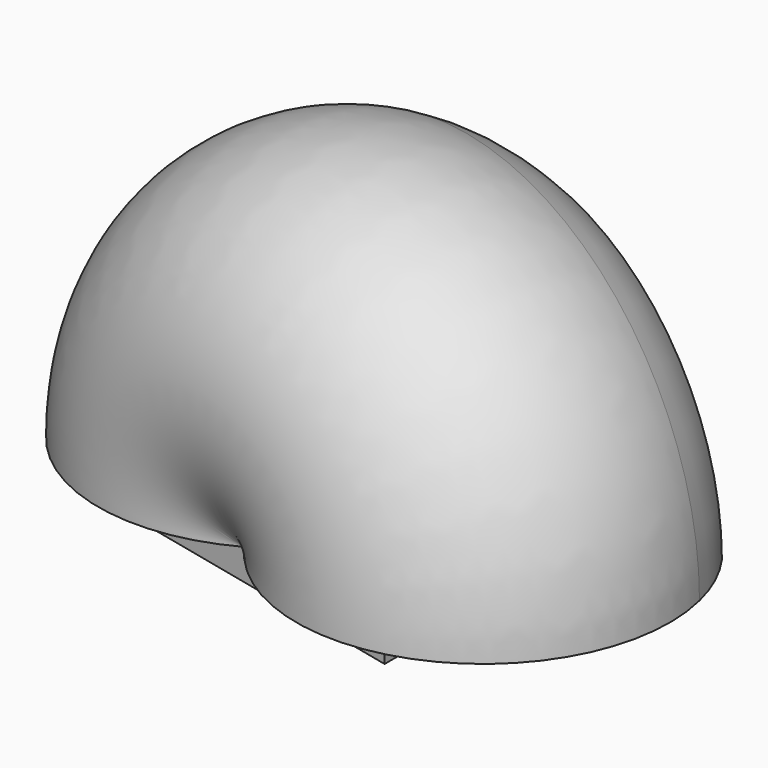
from build123d import *

# Parameters (mm, degrees)
F1_DEPTH = 1
F3_ANGLE = 180


with BuildPart() as f1:
    # F0 (on Top) → F1 (new body, symmetric)
    with BuildSketch(Plane.XY):
        Polygon((-26.7317245839, 23.2235848056), (-23.2621356802, 9.0883314488), (-22.0751509295, 5.0822331875), (0, 0), (0, 12), (-11.0852389111, 24.5631874169), align=None)
    extrude(amount=F1_DEPTH, both=True)

    # F2 (on face) → F3 (revolve)
    with BuildSketch(Plane.XY.offset(1)):
        with BuildLine():
            Line((-11.0375754647, 2.5411165937), (-7.0265512756, 19.963371947))
            Line((-7.0265512756, 19.963371947), (-8.7452889929, 21.9112617702))
            ThreePointArc((-8.7452889929, 21.9112617702), (-10.724487576, 23.3743049269), (-12.9606189712, 24.4026233083))
            Line((-12.9606189712, 24.4026233083), (-22.5696408743, 23.5799292476))
            ThreePointArc((-22.5696408743, 23.5799292476), (-24.4766098451, 22.2886477839), (-26.1016784534, 20.6567499647))
            Line((-26.1016784534, 20.6567499647), (-23.2621356802, 9.0883314488))
            Line((-23.2621356802, 9.0883314488), (-22.0751509295, 5.0822331875))
            Line((-22.0751509295, 5.0822331875), (-11.0375754647, 2.5411165937))
        make_face()
        with BuildLine():
            ThreePointArc((-26.1016784534, 20.6567499647), (-26.0518358174, 5.3770826535), (-11.0375754647, 2.5411165937))
            Line((-11.0375754647, 2.5411165937), (-22.0751509295, 5.0822331875))
            Line((-22.0751509295, 5.0822331875), (-23.2621356802, 9.0883314488))
            Line((-23.2621356802, 9.0883314488), (-26.1016784534, 20.6567499647))
        make_face()
    revolve(axis=Axis((-9.0320633702, 11.2522442704, 1), (0.2243551628, 0.9745074453, 0)), revolution_arc=F3_ANGLE)


solid = f1.part
